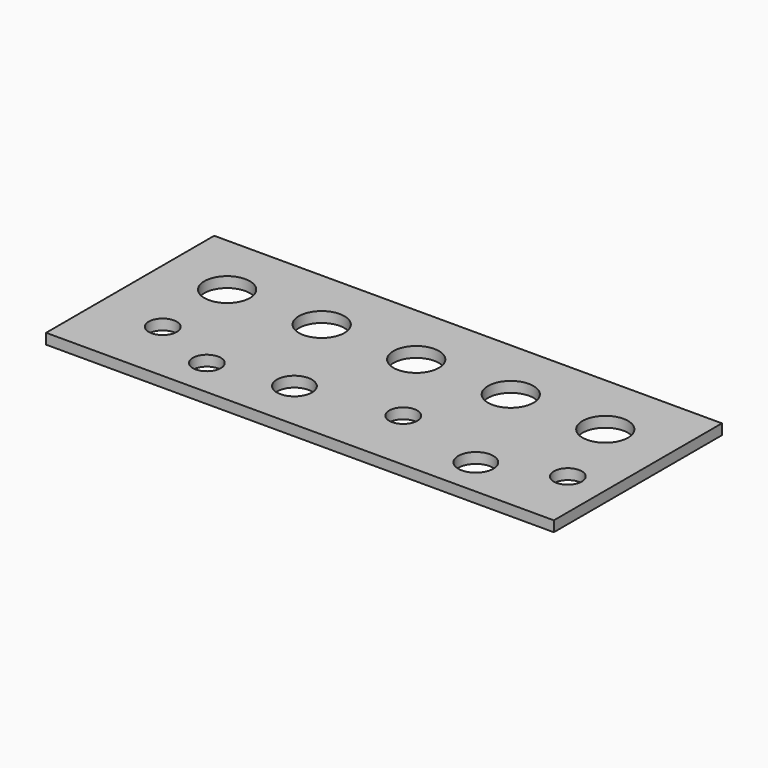
from build123d import *

# Parameters (mm, degrees)
F0_W     = 145
F0_H     = 60
F0_R     = 4
F0_R_2   = 5
F0_R_3   = 6.5
F1_DEPTH = 3


with BuildPart() as f1:
    # F0 (on Top) → F1 (new body)
    with BuildSketch(Plane.XY):
        with Locations((72.5, -30)):
            Rectangle(F0_W, F0_H)
        with Locations((37.109227, -49)):
            Circle(F0_R, mode=Mode.SUBTRACT)
        with Locations((59.31637, -45.5)):
            Circle(F0_R_2, mode=Mode.SUBTRACT)
        with Locations((18.5, -41.5)):
            Circle(F0_R, mode=Mode.SUBTRACT)
        with Locations((113.920427, -49)):
            Circle(F0_R_2, mode=Mode.SUBTRACT)
        with Locations((87.200088, -41.5)):
            Circle(F0_R, mode=Mode.SUBTRACT)
        with Locations((134.195148, -41.5)):
            Circle(F0_R, mode=Mode.SUBTRACT)
        with Locations((18.5, -18.5)):
            Circle(F0_R_3, mode=Mode.SUBTRACT)
        with Locations((45.5, -18.5)):
            Circle(F0_R_3, mode=Mode.SUBTRACT)
        with Locations((72.5, -18.5)):
            Circle(F0_R_3, mode=Mode.SUBTRACT)
        with Locations((99.5, -18.5)):
            Circle(F0_R_3, mode=Mode.SUBTRACT)
        with Locations((126.5, -18.5)):
            Circle(F0_R_3, mode=Mode.SUBTRACT)
    extrude(amount=F1_DEPTH)


solid = f1.part
